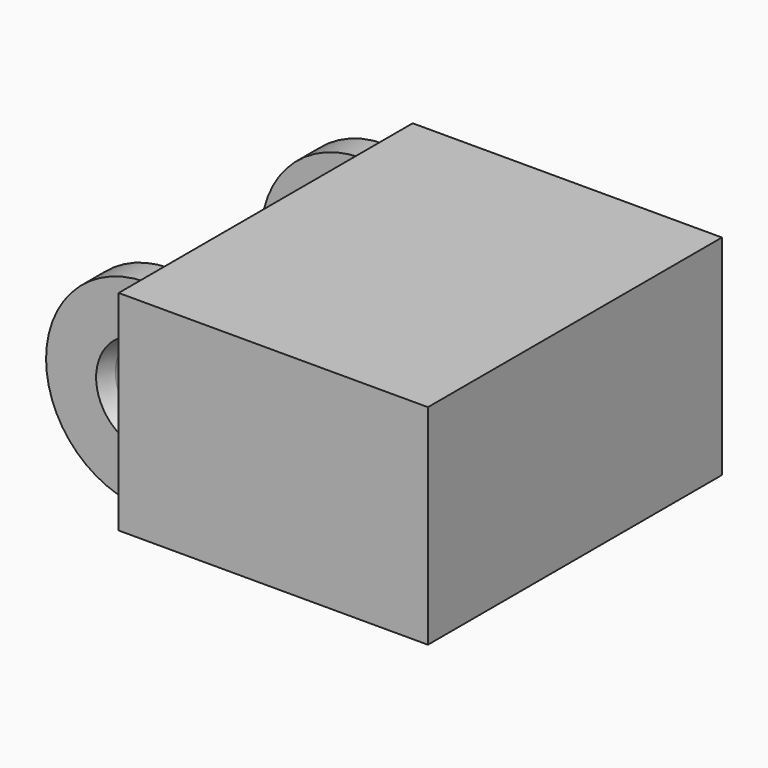
from build123d import *

# Parameters (mm, degrees)
PAD_DEPTH            = 7
SKETCH002_W          = 29.4
SKETCH002_H          = 15.7
POCKET_DEPTH         = 13
POCKET001_DEPTH      = 10.3
POCKET002_DEPTH      = 6.701
POCKET002_DEPTH_BACK = -20.701
SKETCH005_W          = 4.926722
SKETCH005_H          = 16
POCKET003_DEPTH      = 6.701
POCKET004_DEPTH      = 7.001
POCKET004_DEPTH_BACK = -6.701
SKETCH009_W          = 20.7
SKETCH009_H          = 24.6
PAD001_DEPTH         = 7


with BuildPart() as chain_link:
    # Sketch001 → Pad (new body, symmetric)
    with BuildSketch(Plane.XY):
        Polygon((-6.7, 10), (4.7, 10), (4.7, 12.3), (20.7, 12.3), (20.7, -12.3), (4.7, -12.3), (4.7, -10), (-6.7, -10), (-6.7, -8), (4.7, -8), (4.7, 8), (-6.7, 8), align=None)
    extrude(amount=PAD_DEPTH, both=True)

    # Sketch002 → Pocket (cut, symmetric)
    with BuildSketch(Plane.XZ):
        with Locations((7, -0.15)):
            Rectangle(SKETCH002_W, SKETCH002_H)
        with BuildLine():
            ThreePointArc((0, 6.7), (-6.627826, 0.98078), (-1.940429, -6.412857))
            Line((-1.940429, -6.412857), (0, -7))
            Line((20.7, -7), (0, -7))
            Line((20.7, -7), (20.7, 0))
            ThreePointArc((20.7, 0), (20.539851, 1.21645), (20.070319, 2.35))
            Line((20.070319, 2.35), (17.558846, 6.7))
            Line((17.558846, 6.7), (0, 6.7))
        make_face(mode=Mode.SUBTRACT)
    extrude(amount=POCKET_DEPTH, both=True, mode=Mode.SUBTRACT)

    # Sketch003 → Pocket001 (cut, symmetric)
    with BuildSketch(Plane.XZ):
        with BuildLine():
            Line((11.073278, -4.972666), (11.073278, -7))
            Line((11.073278, -7), (20.7, -7))
            Line((20.7, -7), (20.7, 0))
            ThreePointArc((20.7, 0), (20.539851, 1.21645), (20.070319, 2.35))
            Line((20.070319, 2.35), (17.558846, 6.7))
            Line((13.60474, 6.7), (17.558846, 6.7))
            Line((12.500023, 6.062191), (13.60474, 6.7))
            ThreePointArc((12.500023, 6.062191), (9.057786, 0.897589), (11.073278, -4.972666))
        make_face()
    extrude(amount=POCKET001_DEPTH, both=True, mode=Mode.SUBTRACT)

    # Sketch004 → Pocket002 (cut, two sides)
    with BuildSketch(Plane.YZ) as pocket002_sk:
        with BuildLine():
            Line((-7, 4.7), (7, 4.7))
            ThreePointArc((8, 3.7), (7.707107, 4.407107), (7, 4.7))
            Line((8, 3.7), (8, -3.7))
            ThreePointArc((7, -4.7), (7.707107, -4.407107), (8, -3.7))
            Line((7, -4.7), (-7, -4.7))
            ThreePointArc((-8, -3.7), (-7.707107, -4.407107), (-7, -4.7))
            Line((-8, -3.7), (-8, 3.7))
            ThreePointArc((-7, 4.7), (-7.707107, 4.407107), (-8, 3.7))
        make_face()
    extrude(amount=-POCKET002_DEPTH, mode=Mode.SUBTRACT)
    extrude(pocket002_sk.sketch, amount=-POCKET002_DEPTH_BACK, mode=Mode.SUBTRACT)

    # Sketch005 → Pocket003 (cut, through all)
    with BuildSketch(Plane.XY):
        with Locations((13.536639, 0)):
            Rectangle(SKETCH005_W, SKETCH005_H)
    extrude(amount=POCKET003_DEPTH, mode=Mode.SUBTRACT)

    # Sketch006 → Revolution (revolve)
    with BuildSketch(Plane.XY):
        Polygon((16, 10.3), (19.35, 10.3), (18.804045, 8.8), (16, 8.8), align=None)
    revolution = revolve(axis=Axis((16, 8.8, 0), (0, 1, 0)))

    # Mirrored: Revolution across XZ
    add(revolution.mirror(Plane.XZ))

    # Sketch007 → Groove (revolve, cut)
    with BuildSketch(Plane.XY):
        Polygon((0, 10), (3.35, 10), (2.949633, 8.9), (2.949633, 8.5), (0, 8.5), align=None)
    groove = revolve(axis=Axis((0, 0, 0), (0, 1, 0)), mode=Mode.SUBTRACT)

    # Mirrored001: Groove across XZ
    add(groove.mirror(Plane.XZ), mode=Mode.SUBTRACT)

    # Sketch008 → Pocket004 (cut, two sides)
    with BuildSketch(Plane.XY) as pocket004_sk:
        Polygon((16, 8.8), (16, -8.8), (20.7, -10.3), (20.7, 10.3), align=None)
    extrude(amount=-POCKET004_DEPTH, mode=Mode.SUBTRACT)
    extrude(pocket004_sk.sketch, amount=-POCKET004_DEPTH_BACK, mode=Mode.SUBTRACT)


with BuildPart() as endpiece_rigid_plugside:
    # Sketch009 → Pad001 (new body, symmetric)
    with BuildSketch(Plane.XY):
        with Locations((10.35, 0)):
            Rectangle(SKETCH009_W, SKETCH009_H)
    extrude(amount=PAD001_DEPTH, both=True)


solid = Compound([chain_link.part, endpiece_rigid_plugside.part])
